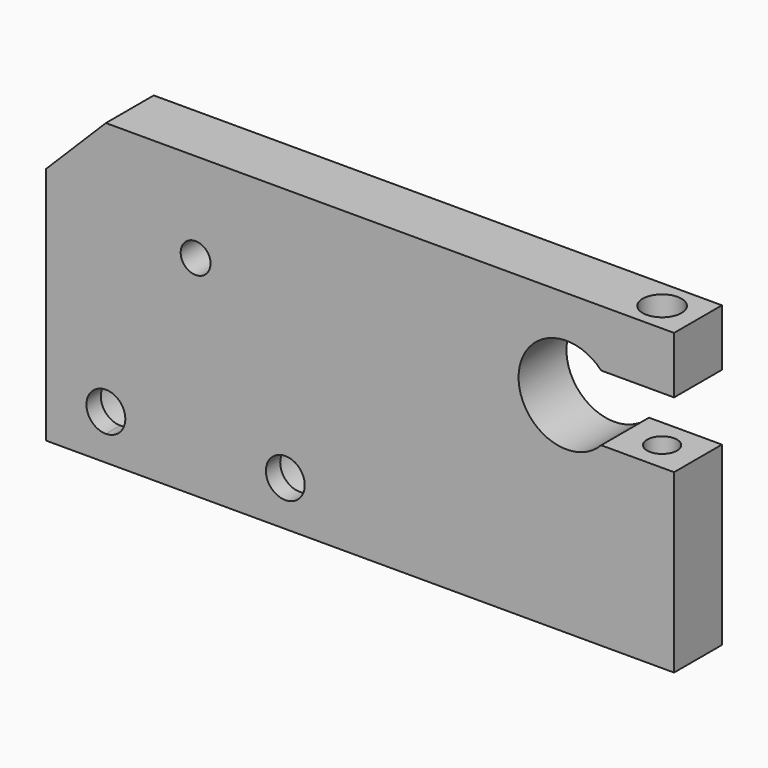
from build123d import *

# Parameters (mm, degrees)
F1_DEPTH = 10
F2_SIZE  = 10
F3_R     = 5.5
F4_DEPTH = 7
F5_R     = 3.25
F6_DEPTH = 15
F7_R     = 2.5
F8_DEPTH = 46


with BuildPart() as f1:
    # F0 (on Front) → F1 (new body)
    with BuildSketch(Plane.XZ):
        with BuildLine():
            Line((-52.5, 25), (-52.5, -25))
            Line((-52.5, -25), (-42.5, -25))
            Line((-42.5, -25), (52.5, -25))
            Line((52.5, -25), (52.5, 4.5))
            Line((52.5, 4.5), (47.240064, 4.5))
            Line((47.240064, 4.5), (40.309475, 4.5))
            ThreePointArc((40.309475, 4.5), (26.5, 10), (40.309475, 15.5))
            Line((40.309475, 15.5), (47.240064, 15.5))
            Line((47.240064, 15.5), (52.5, 15.5))
            Line((52.5, 15.5), (52.5, 25))
            Line((52.5, 25), (-27.5, 25))
            Line((-27.5, 25), (-52.5, 25))
        make_face()
        with BuildLine():
            ThreePointArc((-39.25, -17.5), (-40.201903, -19.798097), (-42.5, -20.75))
            ThreePointArc((-42.5, -20.75), (-44.798097, -15.201903), (-39.25, -17.5))
        make_face(mode=Mode.SUBTRACT)
        with BuildLine():
            ThreePointArc((-9.25, -17.5), (-12.5, -20.75), (-15.75, -17.5))
            ThreePointArc((-15.75, -17.5), (-12.5, -14.25), (-9.25, -17.5))
        make_face(mode=Mode.SUBTRACT)
        with BuildLine():
            ThreePointArc((-25, 10), (-29.267767, 8.232233), (-27.5, 12.5))
            ThreePointArc((-27.5, 12.5), (-25.732233, 11.767767), (-25, 10))
        make_face(mode=Mode.SUBTRACT)
    extrude(amount=F1_DEPTH)

    # F2
    f2_edges = [f1.edges().sort_by_distance(p)[0] for p in [
        (-52.5, -5, 25),
    ]]
    chamfer(f2_edges, length=F2_SIZE)

    # F3 (on face) → F4 (cut)
    with BuildSketch(Plane(origin=(0, 0, 0), x_dir=(-1, 0, 0), z_dir=(0, 1, 0))):
        with Locations((12.5, -17.5)):
            Circle(F3_R)
        with Locations((42.5, -17.5)):
            Circle(F3_R)
    extrude(amount=-F4_DEPTH, mode=Mode.SUBTRACT)

    # F5 (on face) → F6 (cut)
    with BuildSketch(Plane.XY.offset(25)):
        with Locations((46.5, -5)):
            Circle(F5_R)
    extrude(amount=-F6_DEPTH, mode=Mode.SUBTRACT)

    # F7 (on face) → F8 (cut)
    with BuildSketch(Plane.XY.offset(25)):
        with Locations((46.5, -5)):
            Circle(F7_R)
    extrude(amount=-F8_DEPTH, mode=Mode.SUBTRACT)


solid = f1.part
